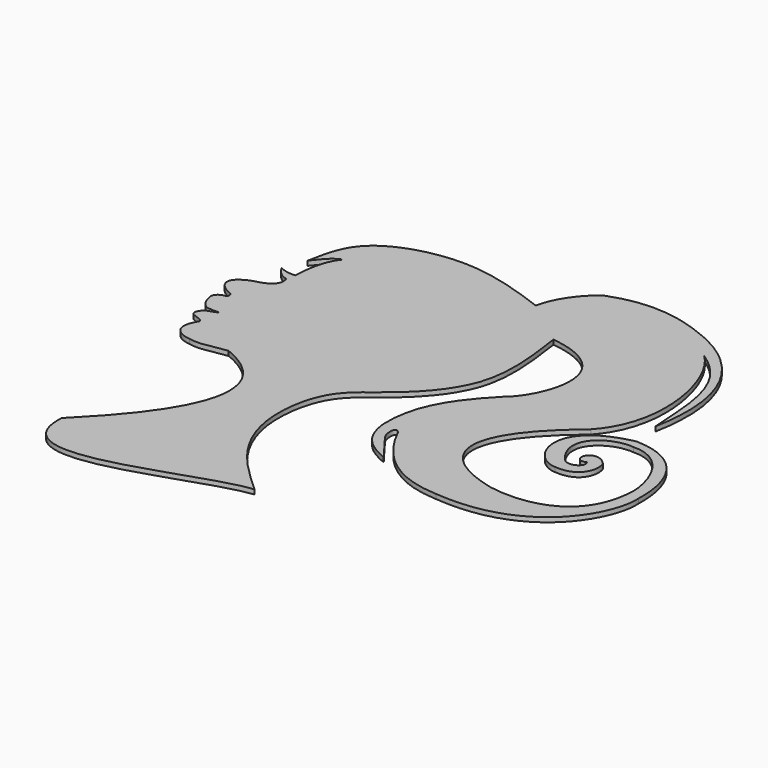
from build123d import *

# Parameters (mm, degrees)
F1_DEPTH = 1


with BuildPart() as f1:
    # F0 (on Top) → F1 (new body)
    with BuildSketch(Plane.XY):
        with BuildLine():
            add(Edge.make_bspline(
                [(-20.8665426716, 18.397650235), (-20.1903553635, 22.148523992), (-18.5927961308, 30.6072682277), (0.8297736088, 36.4578977579), (13.424566628, 32.0204028302), (19.7537988424, 29.7199543566)],
                knots=[0, 0, 0, 0, 0.276946376, 0.6257935478, 1, 1, 1, 1], degree=3))
            add(Edge.make_bspline(
                [(-20.8665426716, 18.397650235), (-19.5796533177, 19.9643534919), (-18.4618644416, 21.7904262245), (-16.4070501924, 22.4652308971)],
                knots=[0, 0, 0, 0, 6.0359163029, 6.0359163029, 6.0359163029, 6.0359163029], degree=3))
            add(Edge.make_bspline(
                [(-19.1014725715, 12.8793083131), (-19.1014725715, 16.4545979351), (-18.215386197, 20.5580331385), (-16.4070501924, 22.4652308971)],
                knots=[0, 0, 0, 0, 9.957400451, 9.957400451, 9.957400451, 9.957400451], degree=3))
            add(Edge.make_bspline(
                [(-22.681472823, 13.5721871629), (-21.7005256563, 12.9922945052), (-20.227715373, 12.7012068406), (-19.1014725715, 12.8793083131)],
                knots=[0, 0, 0, 0, 3.6464342722, 3.6464342722, 3.6464342722, 3.6464342722], degree=3))
            add(Edge.make_bspline(
                [(-19.5205342025, 10.8836535364), (-21.142622456, 11.263910681), (-22.0586042851, 12.5462869182), (-22.681472823, 13.5721871629)],
                knots=[0, 0, 0, 0, 4.1496681824, 4.1496681824, 4.1496681824, 4.1496681824], degree=3))
            add(Edge.make_bspline(
                [(-23.7308889627, 6.6631692462), (-21.9120476395, 7.1236696094), (-18.5412317514, 7.9297339544), (-19.5205342025, 10.8836535364)],
                knots=[0, 0, 0, 0, 5.9615077667, 5.9615077667, 5.9615077667, 5.9615077667], degree=3))
            add(Edge.make_bspline(
                [(-23.7308889627, 0.8257346926), (-26.2068863958, 1.7335914308), (-29.0413927287, 4.5064790174), (-23.7308889627, 6.6631692462)],
                knots=[0, 0, 0, 0, 5.8374345535, 5.8374345535, 5.8374345535, 5.8374345535], degree=3))
            add(Edge.make_bspline(
                [(-23.7308889627, -0.4696604155), (-23.3873687685, -0.4872174759), (-22.8560995311, 0.2822079114), (-23.7308889627, 0.8257346926)],
                knots=[0, 0, 0, 0, 1.2953951082, 1.2953951082, 1.2953951082, 1.2953951082], degree=3))
            add(Edge.make_bspline(
                [(-25.4408102483, -1.531884307), (-25.1299161464, -0.9100947645), (-24.4304016232, -0.5214762059), (-23.7308889627, -0.4696604155)],
                knots=[0, 0, 0, 0, 2.0129953796, 2.0129953796, 2.0129953796, 2.0129953796], degree=3))
            add(Edge.make_bspline(
                [(-22.4216707264, -5.833170151), (-24.9668207233, -6.2141881861), (-25.9071532637, -1.9205028657), (-25.4408102483, -1.531884307)],
                knots=[0, 0, 0, 0, 5.2551178259, 5.2551178259, 5.2551178259, 5.2551178259], degree=3))
            add(Edge.make_bspline(
                [(-20.9138079784, -6.0188561941), (-20.6068530679, -5.7070334442), (-21.582293878, -6.0338505094), (-22.4216707264, -5.833170151)],
                knots=[0, 0, 0, 0, 1.5192528998, 1.5192528998, 1.5192528998, 1.5192528998], degree=3))
            add(Edge.make_bspline(
                [(-23.3263075352, -7.0466995183), (-22.853889813, -6.6050914991), (-21.4558626197, -6.3404192432), (-20.9138079784, -6.0188561941)],
                knots=[0, 0, 0, 0, 2.6223302634, 2.6223302634, 2.6223302634, 2.6223302634], degree=3))
            add(Edge.make_bspline(
                [(-21.2470069528, -10.5123631656), (-21.7241961509, -9.0493401513), (-25.5754273385, -9.9428268093), (-23.3263075352, -7.0466995183)],
                knots=[0, 0, 0, 0, 4.0415733852, 4.0415733852, 4.0415733852, 4.0415733852], degree=3))
            add(Edge.make_bspline(
                [(-18.5455586761, -16.6124049574), (-19.9988428503, -16.5669471025), (-24.3122242391, -15.2729321271), (-21.2470069528, -10.5123631656)],
                knots=[0, 0, 0, 0, 6.6714565616, 6.6714565616, 6.6714565616, 6.6714565616], degree=3))
            add(Edge.make_bspline(
                [(-10.5979545042, -15.9152131528), (-13.2471558948, -16.147610421), (-15.9312561154, -17.2224100679), (-18.5455586761, -16.6124049574)],
                knots=[0, 0, 0, 0, 7.9781256249, 7.9781256249, 7.9781256249, 7.9781256249], degree=3))
            add(Edge.make_bspline(
                [(-17.3396617174, -52.9880858958), (-13.085112907, -48.4555363655), (11.8656428531, -25.2468641847), (-10.5979545042, -15.9152131528)],
                knots=[0, 0, 0, 0, 37.6808772399, 37.6808772399, 37.6808772399, 37.6808772399], degree=3))
            add(Edge.make_bspline(
                [(24.6794633567, -52.9880858958), (12.7007942647, -54.1992671788), (-18.2323064655, -71.822501719), (-17.3396617174, -52.9880858958)],
                knots=[0, 0, 0, 0, 42.0191250741, 42.0191250741, 42.0191250741, 42.0191250741], degree=3))
            add(Edge.make_bspline(
                [(29.9084167928, 21.8148902059), (30.8950484785, 14.8113194584), (32.7630662271, 1.551260361), (20.7029575849, -11.1408703973), (11.5996920553, -16.6471227563), (9.0480540501, -31.2728844387), (14.3939009926, -43.6415991523), (21.2232429507, -49.8474196819), (24.6794633567, -52.9880858958)],
                knots=[0, 0, 0, 0, 0.1970538936, 0.3730877246, 0.5146793148, 0.6758169533, 0.8359361607, 1, 1, 1, 1], degree=3))
            add(Edge.make_bspline(
                [(36.3382212818, 0), (41.4113514125, 4.037628416), (47.6856790483, 19.7234489024), (29.9084167928, 21.8148902059)],
                knots=[0, 0, 0, 0, 22.7427311566, 22.7427311566, 22.7427311566, 22.7427311566], degree=3))
            add(Edge.make_bspline(
                [(26.7475955188, -20.5264855176), (26.4226775616, -11.8059907109), (30.5184200406, -5.9673800133), (36.3382212818, 0)],
                knots=[0, 0, 0, 0, 22.6564937762, 22.6564937762, 22.6564937762, 22.6564937762], degree=3))
            add(Edge.make_bspline(
                [(34.4597883523, -30.0686936826), (31.496912241, -28.7179704756), (27.4011716247, -26.97510086), (26.7475955188, -20.5264855176)],
                knots=[0, 0, 0, 0, 12.2691342385, 12.2691342385, 12.2691342385, 12.2691342385], degree=3))
            add(Edge.make_bspline(
                [(29.987193644, -24.1249073297), (31.4780585468, -26.1061694473), (32.9689234495, -28.0874315649), (34.4597883523, -30.0686936826)],
                knots=[0, 0, 0, 0, 7.4385952728, 7.4385952728, 7.4385952728, 7.4385952728], degree=3))
            add(Edge.make_bspline(
                [(30.6163486093, -21.3921349496), (29.0937069803, -19.5650476962), (29.0937069803, -22.8308942169), (29.987193644, -24.1249073297)],
                knots=[0, 0, 0, 0, 2.8042611954, 2.8042611954, 2.8042611954, 2.8042611954], degree=3))
            add(Edge.make_bspline(
                [(49.8153455555, -35.02195701), (43.0737137794, -34.7288399935), (35.7458516955, -31.9442562759), (30.6163486093, -21.3921349496)],
                knots=[0, 0, 0, 0, 23.545138206, 23.545138206, 23.545138206, 23.545138206], degree=3))
            add(Edge.make_bspline(
                [(77.7483582497, -14.7911049426), (78.2474428415, -21.2455783039), (71.2127014995, -36.9272008538), (49.8153455555, -35.02195701)],
                knots=[0, 0, 0, 0, 34.4897169247, 34.4897169247, 34.4897169247, 34.4897169247], degree=3))
            add(Edge.make_bspline(
                [(64.4583404064, 1.3616352808), (76.0629549623, 0.9637963958), (77.9681950808, -8.9288158342), (77.7483582497, -14.7911049426)],
                knots=[0, 0, 0, 0, 20.9173514336, 20.9173514336, 20.9173514336, 20.9173514336], degree=3))
            add(Edge.make_bspline(
                [(59.4363287091, -14.6286822855), (53.6440759897, -14.4746331498), (48.2831597328, -1.9658291712), (64.4583404064, 1.3616352808)],
                knots=[0, 0, 0, 0, 16.7603955013, 16.7603955013, 16.7603955013, 16.7603955013], degree=3))
            add(Edge.make_bspline(
                [(64.9254620075, -8.5224593058), (65.7523497939, -9.4834351912), (65.8447816968, -15.1524497196), (59.4363287091, -14.6286822855)],
                knots=[0, 0, 0, 0, 8.2107577875, 8.2107577875, 8.2107577875, 8.2107577875], degree=3))
            add(Edge.make_bspline(
                [(60.7119426131, -8.5224593058), (61.0233768821, -7.1668047458), (63.2400512695, -6.5439366736), (64.9254620075, -8.5224593058)],
                knots=[0, 0, 0, 0, 4.2135193944, 4.2135193944, 4.2135193944, 4.2135193944], degree=3))
            add(Edge.make_bspline(
                [(62.4780319631, -9.7865154967), (62.0675943792, -10.4277031496), (60.3455491364, -10.1712280884), (60.7119426131, -8.5224593058)],
                knots=[0, 0, 0, 0, 2.1718447564, 2.1718447564, 2.1718447564, 2.1718447564], degree=3))
            add(Edge.make_bspline(
                [(62.4780319631, -11.3753341138), (62.9469379783, -11.0505707562), (62.8736615181, -10.3177847341), (62.4780319631, -9.7865154967)],
                knots=[0, 0, 0, 0, 1.5888186172, 1.5888186172, 1.5888186172, 1.5888186172], degree=3))
            add(Edge.make_bspline(
                [(58.9657090604, -11.3753341138), (60.144033283, -12.772618793), (61.9759969413, -12.0398327708), (62.4780319631, -11.3753341138)],
                knots=[0, 0, 0, 0, 3.5123229027, 3.5123229027, 3.5123229027, 3.5123229027], degree=3))
            add(Edge.make_bspline(
                [(65.3125420213, -0.5918830284), (60.3213422, 0), (53.2966963947, -4.7204042785), (58.9657090604, -11.3753341138)],
                knots=[0, 0, 0, 0, 12.5125978895, 12.5125978895, 12.5125978895, 12.5125978895], degree=3))
            add(Edge.make_bspline(
                [(75.3649771214, -12.9526508972), (75.2333179116, -8.9721651748), (72.5220516324, -0.4686435277), (65.3125420213, -0.5918830284)],
                knots=[0, 0, 0, 0, 15.9323580724, 15.9323580724, 15.9323580724, 15.9323580724], degree=3))
            add(Edge.make_bspline(
                [(55.5079430342, -27.3152571172), (62.761053443, -28.6342725158), (75.0718563795, -27.3152571172), (75.3649771214, -12.9526508972)],
                knots=[0, 0, 0, 0, 24.5068614916, 24.5068614916, 24.5068614916, 24.5068614916], degree=3))
            add(Edge.make_bspline(
                [(55.5079430342, 0), (37.8463231027, -14.5647795871), (41.0705842078, -23.7978845835), (55.5079430342, -27.3152571172)],
                knots=[0, 0, 0, 0, 27.3152571172, 27.3152571172, 27.3152571172, 27.3152571172], degree=3))
            add(Edge.make_bspline(
                [(53.6933578551, 33.1152714789), (59.9522590637, 27.195526287), (64.3094331026, 9.4182631001), (55.5079430342, 0)],
                knots=[0, 0, 0, 0, 33.1649502411, 33.1649502411, 33.1649502411, 33.1649502411], degree=3))
            add(Edge.make_bspline(
                [(63.429273665, 7.7279442921), (62.56660074, 15.9849859774), (63.7989938259, 26.5835784376), (53.6933578551, 33.1152714789)],
                knots=[0, 0, 0, 0, 27.1901533343, 27.1901533343, 27.1901533343, 27.1901533343], degree=3))
            add(Edge.make_bspline(
                [(45.8327420056, 39.828594774), (49.2567382753, 38.5378040373), (68.2356134057, 32.9920314252), (63.429273665, 7.7279442921)],
                knots=[0, 0, 0, 0, 36.6072354569, 36.6072354569, 36.6072354569, 36.6072354569], degree=3))
            add(Edge.make_bspline(
                [(26.5074167401, 39.828594774), (31.9970119745, 41.9316887856), (37.9454195499, 42.5398573279), (45.8327420056, 39.828594774)],
                knots=[0, 0, 0, 0, 19.3253252655, 19.3253252655, 19.3253252655, 19.3253252655], degree=3))
            add(Edge.make_bspline(
                [(19.7537988424, 29.7199543566), (20.4133884295, 33.497739788), (23.4133824706, 37.7923734486), (26.5074167401, 39.828594774)],
                knots=[0, 0, 0, 0, 12.1571364143, 12.1571364143, 12.1571364143, 12.1571364143], degree=3))
        make_face()
    extrude(amount=F1_DEPTH)


solid = f1.part
